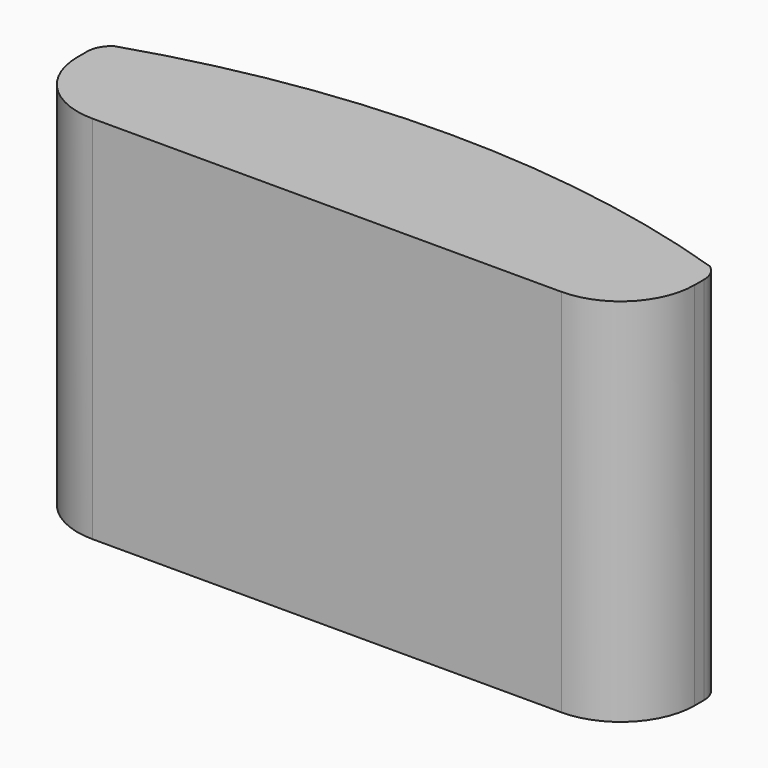
from build123d import *

# Parameters (mm, degrees)
F1_DEPTH = 15


with BuildPart() as f1:
    # F0 (on Top) → F1 (new body)
    with BuildSketch(Plane.XY):
        with BuildLine():
            ThreePointArc((-21.391129, 20.789386), (-20.512449, 18.668066), (-18.391129, 17.789386))
            Line((-18.391129, 17.789386), (0.608871, 17.789386))
            ThreePointArc((0.608871, 17.789386), (2.730191, 18.668066), (3.608871, 20.789386))
            Line((3.608871, 20.789386), (3.608871, 21.269183))
            ThreePointArc((3.608871, 21.269183), (3.49309, 21.736256), (3.172557, 22.095172))
            ThreePointArc((3.172557, 22.095172), (-8.891129, 24.014756), (-20.954815, 22.095172))
            ThreePointArc((-20.954815, 22.095172), (-21.275348, 21.736256), (-21.391129, 21.269183))
            Line((-21.391129, 21.269183), (-21.391129, 20.789386))
        make_face()
    extrude(amount=F1_DEPTH)


solid = f1.part
